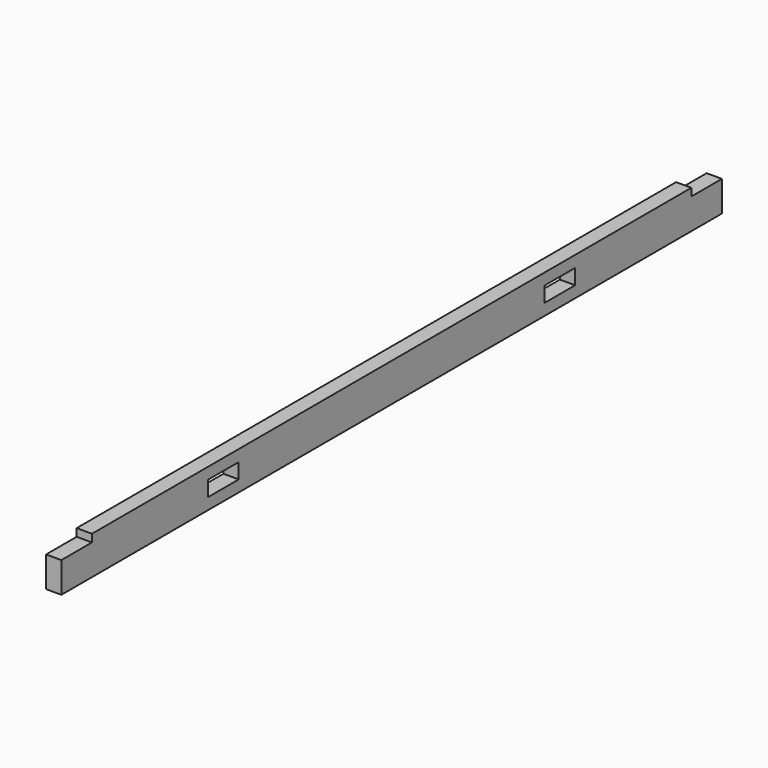
from build123d import *

# Parameters (mm, degrees)
F0_W     = 20
F0_H     = 50
F1_DEPTH = 1080
F2_W     = 50
F2_H     = 20
F3_DEPTH = 20.001
F4_W     = 20
F4_H     = 10
F5_DEPTH = 50
F6_W     = 20
F6_H     = 10
F7_DEPTH = 50


with BuildPart() as f1:
    # F0 (on Front) → F1 (new body)
    with BuildSketch(Plane.XZ):
        Rectangle(F0_W, F0_H)
    extrude(amount=-F1_DEPTH)

    # F2 (on face) → F3 (cut, through all)
    with BuildSketch(Plane(origin=(-10, 0, 0), x_dir=(0, -1, 0), z_dir=(-1, 0, 0))):
        with Locations((-815, 0)):
            Rectangle(F2_W, F2_H)
        with Locations((-265, 0)):
            Rectangle(F2_W, F2_H)
    extrude(amount=-F3_DEPTH, mode=Mode.SUBTRACT)

    # F4 (on face) → F5 (cut)
    with BuildSketch(Plane.XZ):
        with Locations((0, 20)):
            Rectangle(F4_W, F4_H)
    extrude(amount=-F5_DEPTH, mode=Mode.SUBTRACT)

    # F6 (on face) → F7 (cut)
    with BuildSketch(Plane(origin=(0, 1080, 0), x_dir=(-1, 0, 0), z_dir=(0, 1, 0))):
        with Locations((0, 20)):
            Rectangle(F6_W, F6_H)
    extrude(amount=-F7_DEPTH, mode=Mode.SUBTRACT)


solid = f1.part
